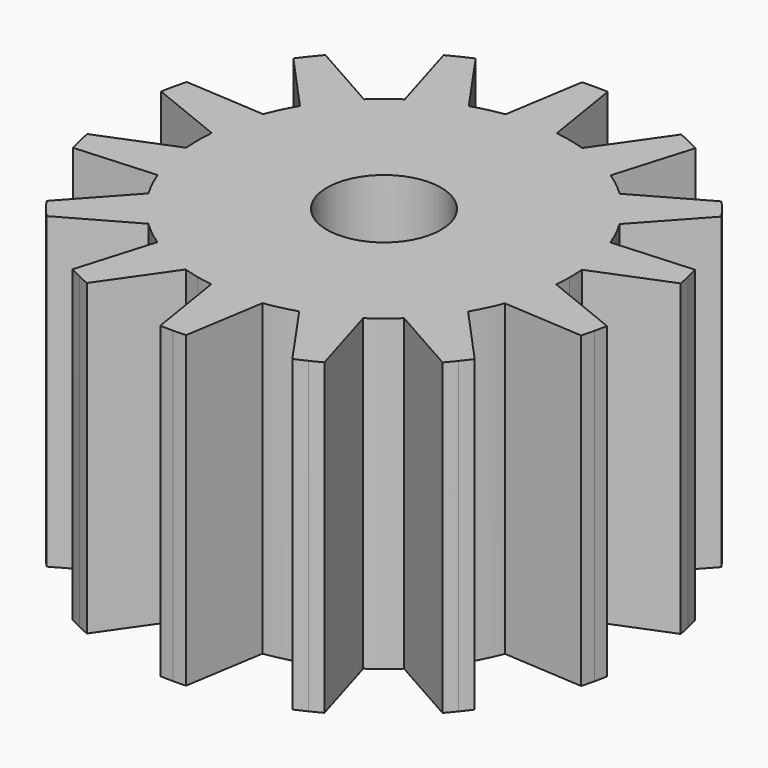
from build123d import *

# Parameters (mm, degrees)
F3_DEPTH = 5
F4_DEPTH = 5
F5_COUNT = 14
F6_R     = 0.925
F7_DEPTH = 5.001


with BuildPart() as f3:
    # F1 (on Top) → F3 (new body)
    with BuildSketch(Plane.XY):
        with BuildLine():
            ThreePointArc((-0.4153368417, 2.9807568553), (-1.9757830613, -2.2701756357), (3.0095541401, 0))
            ThreePointArc((3.0095541401, 0), (2.2701756357, 1.9757830613), (0.4153368417, 2.9807568553))
            ThreePointArc((0.4153368417, 2.9807568553), (0.2081669857, 3.0023461873), (0, 3.0095541401))
            ThreePointArc((0, 3.0095541401), (-0.2081669857, 3.0023461873), (-0.4153368417, 2.9807568553))
        make_face()
    extrude(amount=F3_DEPTH)

    # F1 (on Top) → F4 (join)
    with BuildSketch(Plane.XY):
        with BuildLine():
            ThreePointArc((0, 3.0095541401), (0.2081669857, 3.0023461873), (0.4153368417, 2.9807568553))
            Line((0.4153368417, 2.9807568553), (0.208250893, 4.2702265482))
            ThreePointArc((0.208250893, 4.2702265482), (0.1041563607, 4.2740325993), (0, 4.2753015341))
            ThreePointArc((0, 4.2753015341), (-0.1041563607, 4.2740325993), (-0.208250893, 4.2702265482))
            Line((-0.208250893, 4.2702265482), (-0.4153368417, 2.9807568553))
            ThreePointArc((-0.4153368417, 2.9807568553), (-0.2081669857, 3.0023461873), (0, 3.0095541401))
        make_face()
    extrude(amount=F4_DEPTH)

    # F5: F3 ×14 about axis
    f5_axis = Axis((0, 0, 3.5011740401), (0, 0, -1))


with BuildPart() as f3_1:
    add(f3.part)
    for i in range(1, F5_COUNT):
        add(f3.part.rotate(f5_axis, i * 360 / F5_COUNT))

    # F6 (on face) → F7 (cut, through all)
    with BuildSketch(Plane.XY.offset(5)):
        Circle(F6_R)
    extrude(amount=-F7_DEPTH, mode=Mode.SUBTRACT)


solid = f3_1.part
